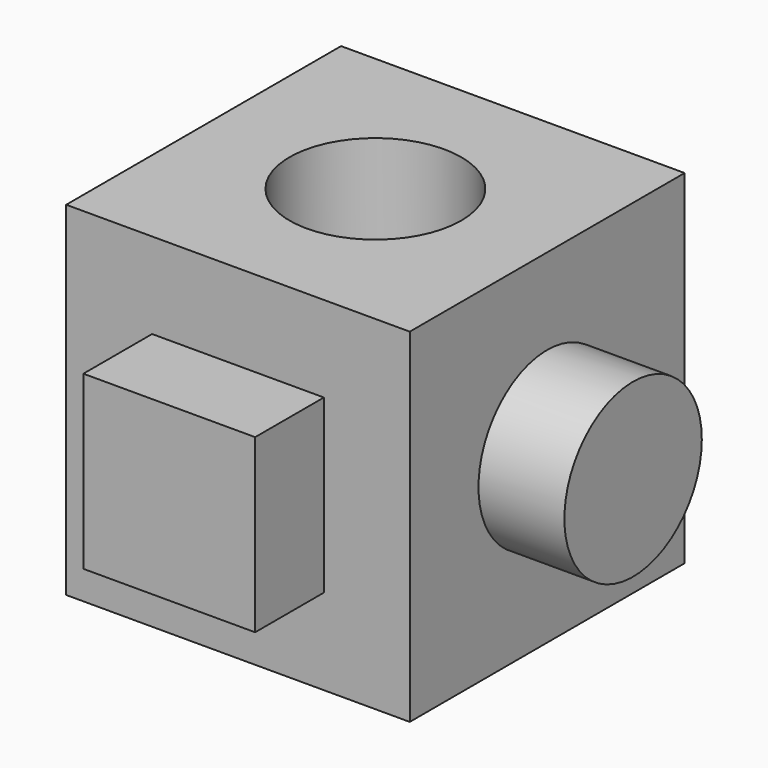
from build123d import *

# Parameters (mm, degrees)
F0_W     = 50.8
F0_H     = 50.8
F1_DEPTH = 50.8
F2_R     = 12.7
F3_DEPTH = 50.8
F4_W     = 25.4
F4_H     = 25.4
F5_DEPTH = 12.7
F6_R     = 12.7
F7_DEPTH = 12.7


with BuildPart() as f1:
    # F0 (on Front) → F1 (new body)
    with BuildSketch(Plane.XZ):
        with Locations((-22.147709, -9.544702)):
            Rectangle(F0_W, F0_H)
    extrude(amount=F1_DEPTH)

    # F2 (on face) → F3 (cut)
    with BuildSketch(Plane.XY.offset(15.855298)):
        with Locations((-22.147709, -25.4)):
            Circle(F2_R)
    extrude(amount=-F3_DEPTH, mode=Mode.SUBTRACT)

    # F4 (on face) → F5 (join)
    with BuildSketch(Plane.XZ.offset(50.8)):
        with Locations((-22.147709, -9.544702)):
            Rectangle(F4_W, F4_H)
    extrude(amount=F5_DEPTH)

    # F6 (on face) → F7 (join)
    with BuildSketch(Plane.YZ.offset(3.252291)):
        with Locations((-25.4, -9.544702)):
            Circle(F6_R)
    extrude(amount=F7_DEPTH)


solid = f1.part
